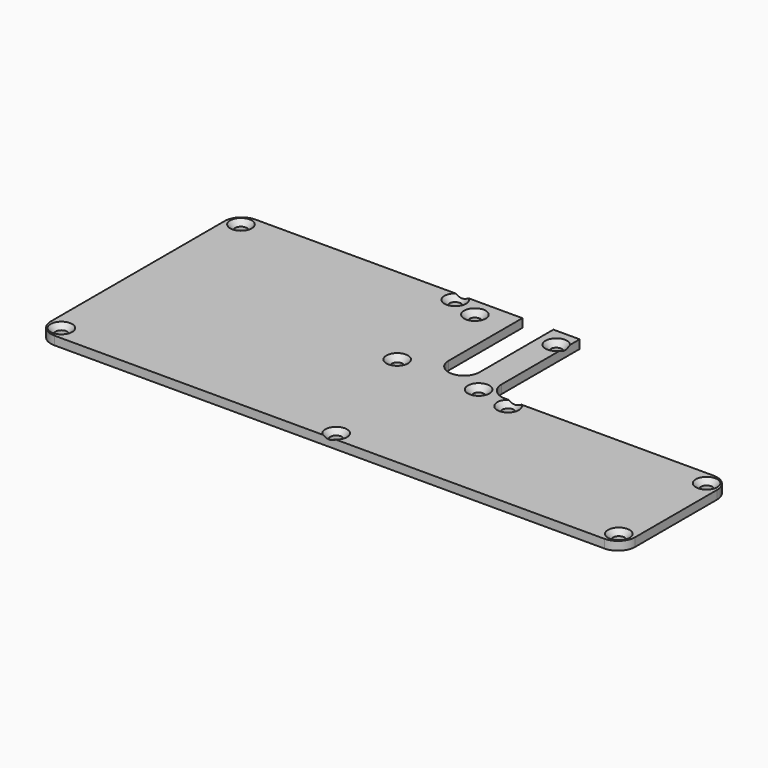
from build123d import *

# Parameters (mm, degrees)
F1_DEPTH       = 3.175
F2_R           = 6.35
F4_D           = 4.3
F4_CSINK_D     = 8
F4_CSINK_ANGLE = 90
F6_D           = 4
F6_CSINK_D     = 8
F6_CSINK_ANGLE = 90


with BuildPart() as f1:
    # F0 (on Top) → F1 (new body)
    with BuildSketch(Plane.XY):
        with BuildLine():
            Line((105.375, 0), (0, 0))
            Line((0, 0), (0, -93.225))
            Line((0, -93.225), (216.7, -93.225))
            Line((216.7, -93.225), (216.7, -42.525))
            Line((216.7, -42.525), (126.612, -42.525))
            Line((126.612, -42.525), (126.612, 0))
            Line((126.612, 0), (116.875, 0))
            Line((116.875, 0), (116.875, -34.25))
            ThreePointArc((116.875, -34.25), (111.125, -40), (105.375, -34.25))
            Line((105.375, -34.25), (105.375, 0))
        make_face()
    extrude(amount=F1_DEPTH)

    # F2
    f2_edges = [f1.edges().sort_by_distance(p)[0] for p in [
        (0, 0, 1.5875),
        (0, -93.225, 1.5875),
        (126.612, -42.525, 1.5875),
        (216.7, -42.525, 1.5875),
        (216.7, -93.225, 1.5875),
    ]]
    fillet(f2_edges, radius=F2_R)

    # F4 (through all)
    with Locations(Plane.XY.offset(3.175)):
        with Locations((5, -5), (5, -88.225), (211.7, -88.225), (211.7, -47.525), (136.612, -45.7), (83, -3.175), (108.35, -90.05)):
            CounterSinkHole(F4_D / 2, F4_CSINK_D / 2, counter_sink_angle=F4_CSINK_ANGLE)

    # F6 (through all)
    with Locations(Plane.XY.offset(3.175)):
        with Locations((123.437, -42.875), (123.437, -6.875), (93.262, -6.875), (93.262, -42.875)):
            CounterSinkHole(F6_D / 2, F6_CSINK_D / 2, counter_sink_angle=F6_CSINK_ANGLE)


solid = f1.part
